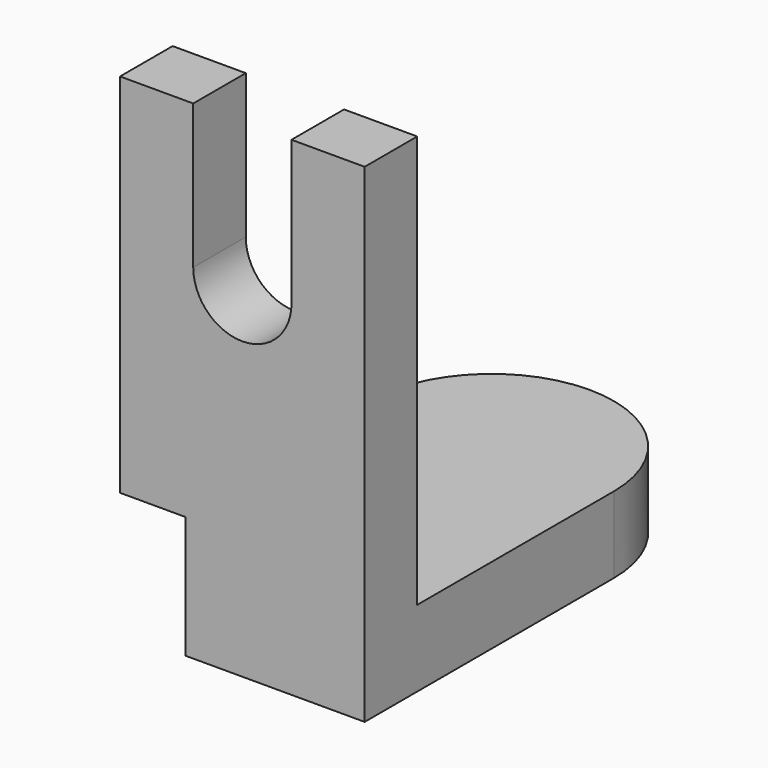
from build123d import *

# Parameters (mm, degrees)
F1_DEPTH = 12.7
F2_W     = 40.6866073608
F2_H     = 10.9301833436
F3_DEPTH = 68.58
F5_DEPTH = 25.4
F7_DEPTH = 10.922


with BuildPart() as f1:
    # F0 (on Top) → F1 (new body)
    with BuildSketch(Plane.XY):
        with BuildLine():
            Line((-20.3433036804, -25.90101026), (20.3433036804, -25.90101026))
            Line((20.3433036804, -25.90101026), (20.3433036804, 25.90101026))
            ThreePointArc((20.3433036804, 25.90101026), (0, 46.2443139404), (-20.3433036804, 25.90101026))
            Line((-20.3433036804, 25.90101026), (-20.3433036804, -25.90101026))
        make_face()
    extrude(amount=F1_DEPTH)

    # F2 (on face) → F3 (join)
    with BuildSketch(Plane.XY.offset(12.7)):
        with Locations((0, -20.4359185882)):
            Rectangle(F2_W, F2_H)
    extrude(amount=F3_DEPTH)

    # F4 (on face) → F5 (cut)
    with BuildSketch(Plane(origin=(0, -14.9708269164, 0), x_dir=(-1, 0, 0), z_dir=(0, 1, 0))):
        with BuildLine():
            Line((8.1715718843, 81.28), (-8.1715718843, 81.28))
            Line((-8.1715718843, 81.28), (-8.1715718843, 57.2796314955))
            ThreePointArc((-8.1715718843, 57.2796314955), (0, 49.1080596112), (8.1715718843, 57.2796314955))
            Line((8.1715718843, 57.2796314955), (8.1715718843, 81.28))
        make_face()
    extrude(amount=-F5_DEPTH, mode=Mode.SUBTRACT)

    # F6 (on face) → F7 (cut)
    with BuildSketch(Plane(origin=(-20.3433036804, 0, 0), x_dir=(0, -1, 0), z_dir=(-1, 0, 0))):
        Polygon((4.7405310906, 0), (25.90101026, 0), (25.90101026, 20.310420543), (14.9708269164, 20.310420543), (14.9708269164, 12.7), (4.7405310906, 12.7), align=None)
    extrude(amount=-F7_DEPTH, mode=Mode.SUBTRACT)


solid = f1.part
